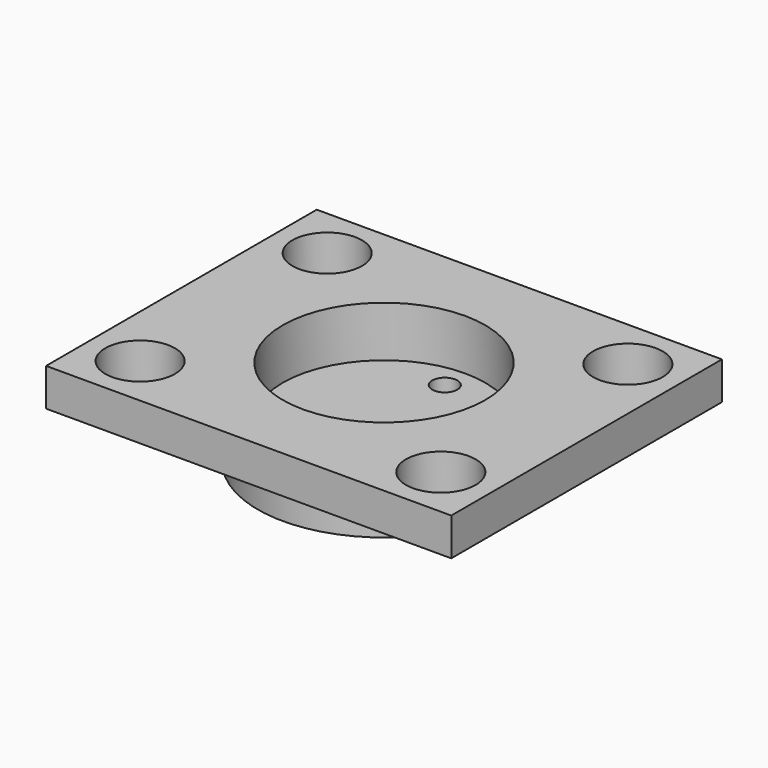
from build123d import *

# Parameters (mm, degrees)
F0_R     = 7.9121
F1_DEPTH = 3.175
F2_W     = 25.4
F2_H     = 21.209
F3_DEPTH = 2.3622
F4_R     = 6.35
F5_DEPTH = 3.175
F7_DEPTH = 2.3632
F8_R     = 2.18313
F9_DEPTH = 5.5382


with BuildPart() as f1:
    # F0 (on Top) → F1 (new body)
    with BuildSketch(Plane.XY):
        Circle(F0_R)
    extrude(amount=F1_DEPTH)

    # F2 (on face) → F3 (join)
    with BuildSketch(Plane.XY.offset(3.175)):
        Rectangle(F2_W, F2_H)
    extrude(amount=F3_DEPTH)

    # F4 (on face) → F5 (cut)
    with BuildSketch(Plane.XY.offset(5.5372)):
        Circle(F4_R)
    extrude(amount=-F5_DEPTH, mode=Mode.SUBTRACT)

    # F6 (on face) → F7 (cut, through all)
    with BuildSketch(Plane.XY.offset(2.3622)):
        with BuildLine():
            ThreePointArc((0, 3.9751), (0.556776, 4.205724), (0.7874, 4.7625))
            ThreePointArc((0.7874, 4.7625), (-0.556776, 5.319276), (0, 3.9751))
        make_face()
    extrude(amount=-F7_DEPTH, mode=Mode.SUBTRACT)

    # F8 (on face) → F9 (cut, through all)
    with BuildSketch(Plane.XY.offset(5.5372)):
        with Locations((9.42467, 7.32917)):
            Circle(F8_R)
        with BuildLine():
            ThreePointArc((-11.6078, 7.32917), (-9.42467, 5.14604), (-7.24154, 7.32917))
            ThreePointArc((-7.24154, 7.32917), (-9.42467, 9.5123), (-11.6078, 7.32917))
        make_face()
        with BuildLine():
            ThreePointArc((-9.42467, -9.5123), (-7.880964, -8.872876), (-7.24154, -7.32917))
            ThreePointArc((-7.24154, -7.32917), (-10.968376, -5.785464), (-9.42467, -9.5123))
        make_face()
        with Locations((9.42467, -7.32917)):
            Circle(F8_R)
    extrude(amount=-F9_DEPTH, mode=Mode.SUBTRACT)


solid = f1.part
